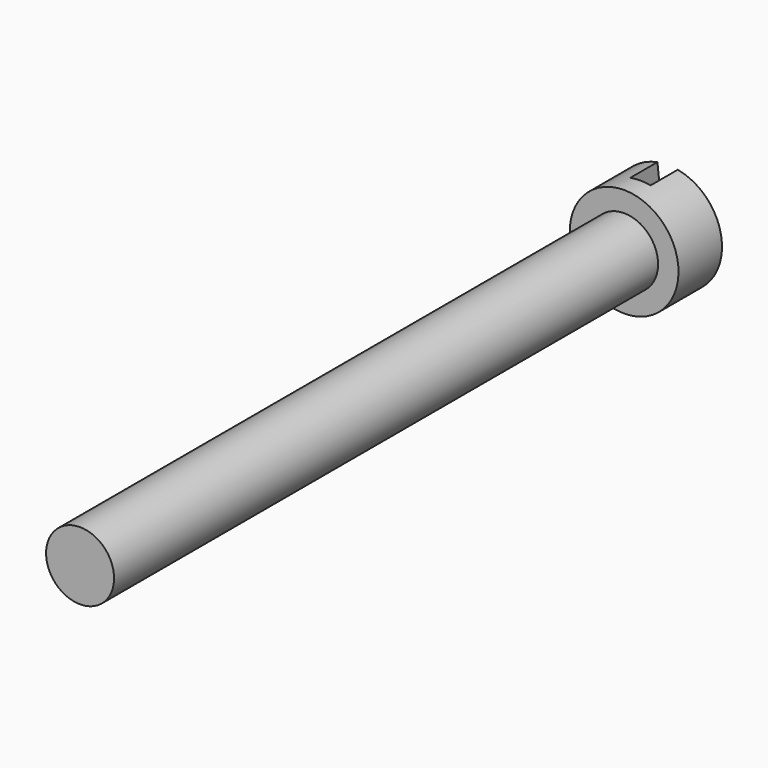
from build123d import *

# Parameters (mm, degrees)
F2_W          = 3
F2_H          = 24.6526273781
F3_DEPTH      = 25
F3_DEPTH_BACK = 5


with BuildPart() as f1:
    # F0 (on Right) → F1 (revolve)
    with BuildSketch(Plane.YZ):
        with BuildLine():
            ThreePointArc((0.6500009331, 0), (0.452965907, 4.010397207), (0, 8))
            Line((0, 8), (-8, 8))
            Line((-8, 8), (-8, 5))
            Line((-8, 5), (-108, 5))
            Line((-108, 5), (-108, 0))
            Line((-108, 0), (0.6500009331, 0))
        make_face()
    revolve(axis=Axis((0, -53.6749995335, 0), (0, -1, 0)))

    # F2 (on Front) → F3 (cut, two sides)
    with BuildSketch(Plane.XZ) as f3_sk:
        with Locations((0, -2.1911582444)):
            Rectangle(F2_W, F2_H)
    extrude(amount=-F3_DEPTH, mode=Mode.SUBTRACT)
    extrude(f3_sk.sketch, amount=F3_DEPTH_BACK, mode=Mode.SUBTRACT)


solid = f1.part
